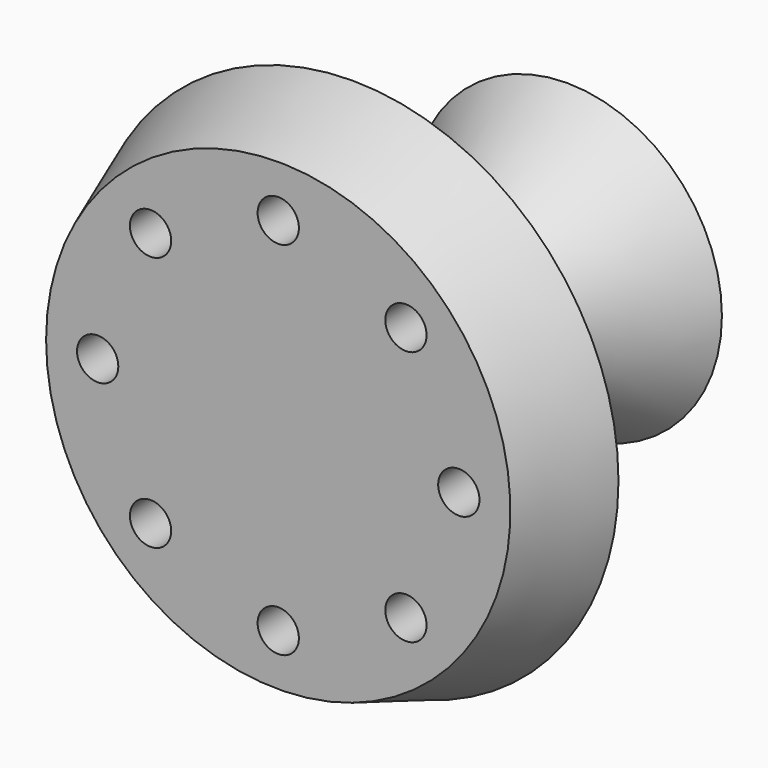
from build123d import *

# Parameters (mm, degrees)
F2_R     = 4
F3_DEPTH = 25


with BuildPart() as f1:
    # F0 (on Top) → F1 (revolve)
    with BuildSketch(Plane.XY):
        Polygon((-45, 0), (0, 0), (0, 70), (-30, 70), (-13.895227, 47), (-13.895227, 38), (-29.551464, 9), (-41.551464, 9), (-41.551464, 18), (-51.551464, 18), align=None)
    revolve(axis=Axis((0, 35, 0), (0, -1, 0)))

    # F2 (on Front) → F3 (cut)
    with BuildSketch(Plane.XZ):
        with Locations((0, 35)):
            Circle(F2_R)
        with Locations((-24.748737, 24.748737)):
            Circle(F2_R)
        with Locations((-35, 0)):
            Circle(F2_R)
        with Locations((-24.748737, -24.748737)):
            Circle(F2_R)
        with Locations((0, -35)):
            Circle(F2_R)
        with Locations((24.748737, -24.748737)):
            Circle(F2_R)
        with Locations((35, 0)):
            Circle(F2_R)
        with Locations((24.748737, 24.748737)):
            Circle(F2_R)
    extrude(amount=-F3_DEPTH, mode=Mode.SUBTRACT)


solid = f1.part
